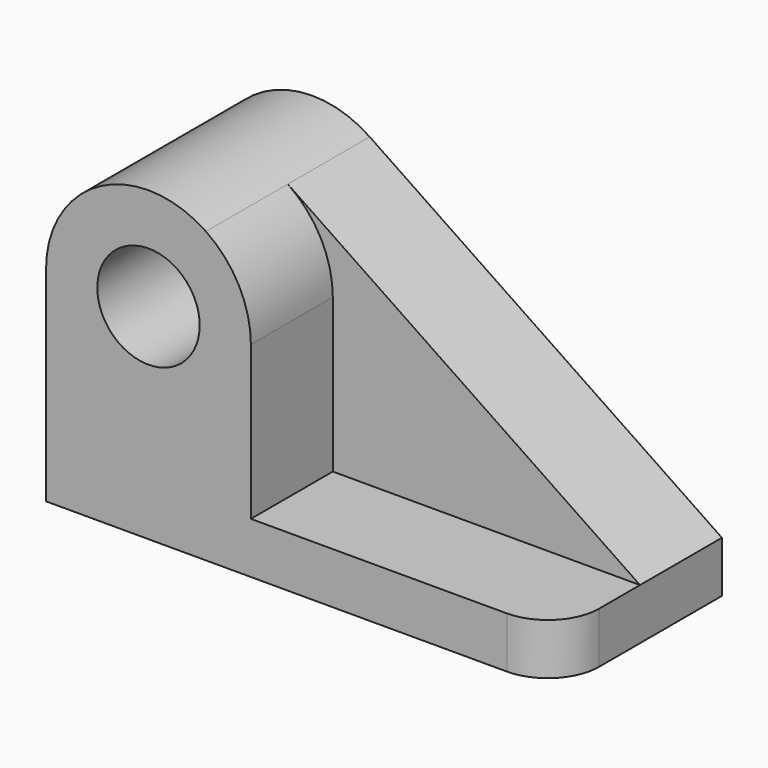
from build123d import *

# Parameters (mm, degrees)
F0_R     = 12.7
F1_DEPTH = 25.4
F2_R     = 12.7
F3_DEPTH = 25.4
F4_R     = 12.7


with BuildPart() as f1:
    # F0 (on Front) → F1 (new body)
    with BuildSketch(Plane.XZ):
        with BuildLine():
            Line((59.469872, 1.341639), (-27.892254, 60.475968))
            ThreePointArc((-27.892254, 60.475968), (-54.036387, 61.878239), (-67.530128, 39.441639))
            Line((-67.530128, 39.441639), (-67.530128, -11.358361))
            Line((-67.530128, -11.358361), (59.469872, -11.358361))
            Line((59.469872, -11.358361), (59.469872, 1.341639))
        make_face()
        with Locations((-42.130128, 39.441639)):
            Circle(F0_R, mode=Mode.SUBTRACT)
    extrude(amount=F1_DEPTH)

    # F2 (on face) → F3 (join)
    with BuildSketch(Plane.XZ.offset(25.4)):
        with BuildLine():
            Line((-16.730128, 1.341639), (-16.730128, 39.441639))
            ThreePointArc((-16.730128, 39.441639), (-19.693528, 51.347899), (-27.892254, 60.475968))
            ThreePointArc((-27.892254, 60.475968), (-54.036387, 61.878239), (-67.530128, 39.441639))
            Line((-67.530128, 39.441639), (-67.530128, 1.341639))
            Line((-67.530128, 1.341639), (-67.530128, -11.358361))
            Line((-67.530128, -11.358361), (59.469872, -11.358361))
            Line((59.469872, -11.358361), (59.469872, 1.341639))
            Line((59.469872, 1.341639), (-16.730128, 1.341639))
        make_face()
        with Locations((-42.130128, 39.441639)):
            Circle(F2_R, mode=Mode.SUBTRACT)
    extrude(amount=F3_DEPTH)

    # F4
    f4_edges = [f1.edges().sort_by_distance(p)[0] for p in [
        (59.469872, -50.8, -5.008361),
    ]]
    fillet(f4_edges, radius=F4_R)


solid = f1.part
